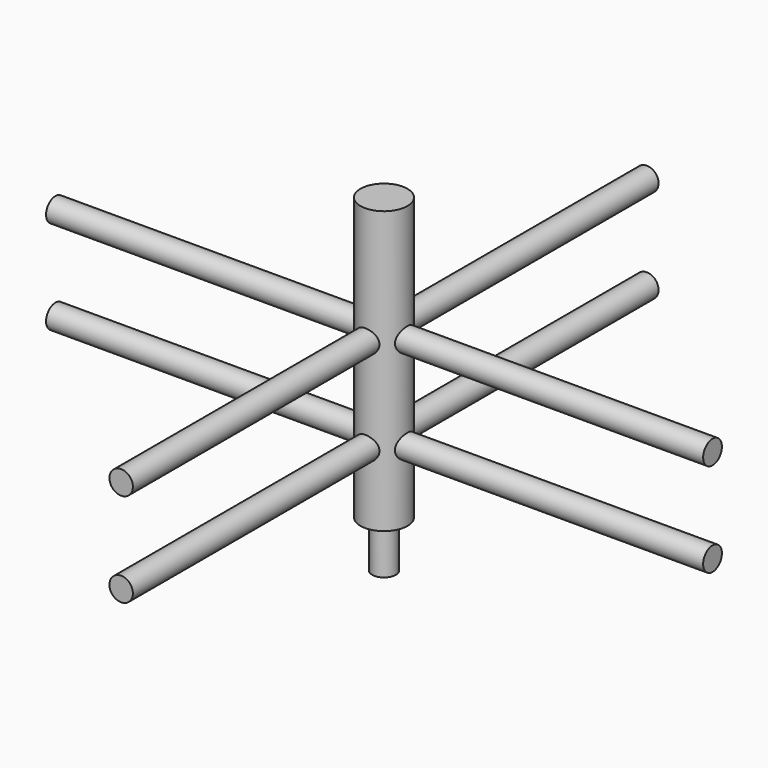
from build123d import *

# Parameters (mm, degrees)
F0_R     = 12.7
F1_DEPTH = 152.4
F2_R     = 6.35
F3_DEPTH = 25.4
F5_R     = 6.35
F4_R     = 6.35
F6_DEPTH = 177.8
F7_R     = 6.35
F8_DEPTH = 177.8


with BuildPart() as f1:
    # F0 (on Top) → F1 (new body)
    with BuildSketch(Plane.XY):
        Circle(F0_R)
    extrude(amount=F1_DEPTH)

    # F2 (on face) → F3 (join)
    with BuildSketch(Plane(origin=(0, 0, 0), x_dir=(1, 0, 0), z_dir=(0, 0, -1))):
        Circle(F2_R)
    extrude(amount=F3_DEPTH)

    # F5 (on Front) + F4 (on Front) → F6 (join, symmetric)
    with BuildSketch(Plane.XZ):
        with Locations((0, 38.1)):
            Circle(F5_R)
    with BuildSketch(Plane.XZ):
        with Locations((0, 88.9)):
            Circle(F4_R)
    extrude(amount=F6_DEPTH, both=True)

    # F7 (on Right) → F8 (join, symmetric)
    with BuildSketch(Plane.YZ):
        with Locations((0, 38.1)):
            Circle(F7_R)
        with Locations((0, 88.9)):
            Circle(F7_R)
    extrude(amount=F8_DEPTH, both=True)


solid = f1.part
